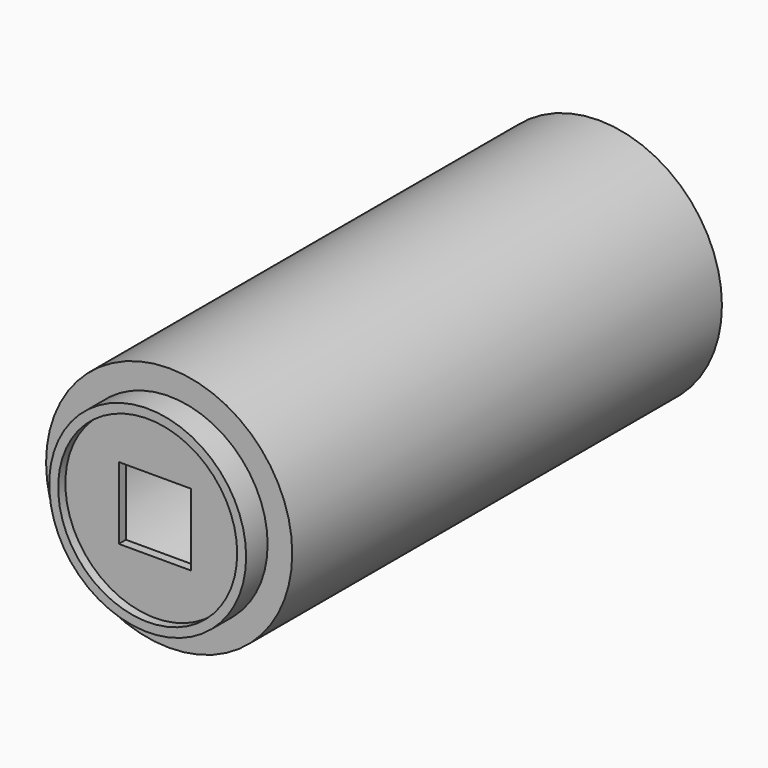
from build123d import *

# Parameters (mm, degrees)
F1_R     = 27.5
F1_R_2   = 22
F2_DEPTH = 120
F3_R     = 22
F3_R_2   = 20
F4_DEPTH = 6
F6_DEPTH = 2
F7_R     = 20
F7_W     = 16.1
F7_H     = 16.1
F8_DEPTH = 2


with BuildPart() as f2:
    # F1 (on Front) → F2 (new body)
    with BuildSketch(Plane.XZ):
        Circle(F1_R)
        Circle(F1_R_2, mode=Mode.SUBTRACT)
    extrude(amount=F2_DEPTH)



with BuildPart() as f4:
    # F3 (on face) → F4 (new body)
    with BuildSketch(Plane.XZ.offset(120)):
        Circle(F3_R)
        Circle(F3_R_2, mode=Mode.SUBTRACT)
    extrude(amount=F4_DEPTH)


with BuildPart() as f2_1:
    add(f2.part)

    add(f4.part)  # F6 merges F4
    # F3 (on face) → F6 (join)
    with BuildSketch(Plane.XZ.offset(120)):
        Circle(F3_R)
        Circle(F3_R_2, mode=Mode.SUBTRACT)
    extrude(amount=F6_DEPTH)

    # F7 (on offset) → F8 (join)
    with BuildSketch(Plane.XZ.offset(124)):
        Circle(F7_R)
        Rectangle(F7_W, F7_H, mode=Mode.SUBTRACT)
    extrude(amount=-F8_DEPTH)


solid = f2_1.part
